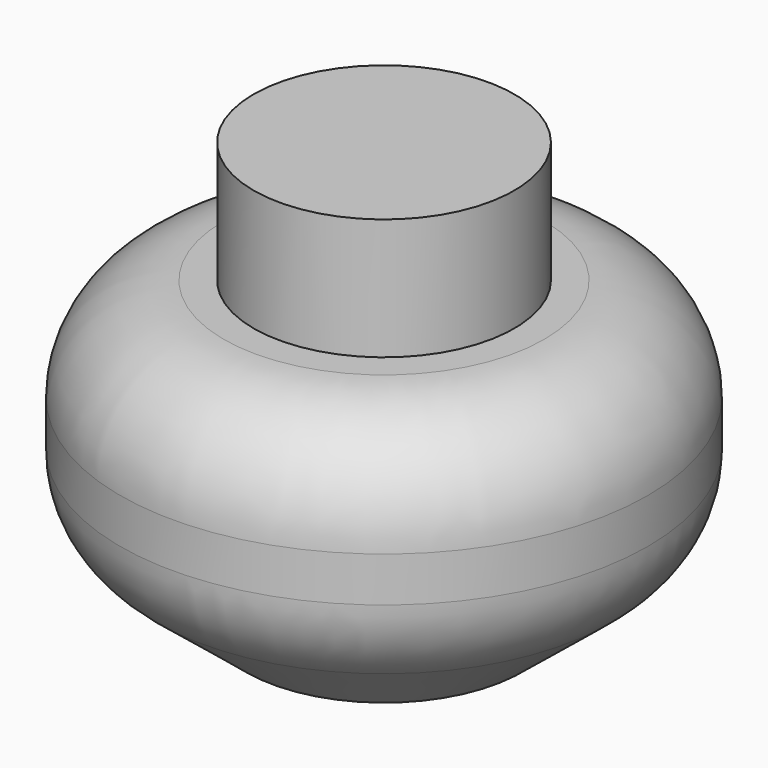
from build123d import *

# Parameters (mm, degrees)
F2_R = 25.4


with BuildPart() as f1:
    # F0 (on Front) → F1 (revolve)
    with BuildSketch(Plane.XZ):
        with BuildLine():
            Line((-33.846732, 0), (0, 0))
            Line((0, 0), (0, 103.226429))
            Line((0, 103.226429), (-31.94258, 103.226429))
            Line((-31.94258, 103.226429), (-31.94258, 73.488735))
            Line((-31.94258, 73.488735), (-64.643393, 73.488735))
            Line((-64.643393, 73.488735), (-64.643393, 37.10385))
            ThreePointArc((-64.643393, 37.10385), (-62.176766, 26.18504), (-55.255959, 17.38691))
            Line((-55.255959, 17.38691), (-33.846732, 0))
        make_face()
    revolve(axis=Axis((0, 0, 51.613214), (0, 0, -1)))

    # F2
    f2_edges = [f1.edges().sort_by_distance(p)[0] for p in [
        (64.643393, 0, 73.488735),
    ]]
    fillet(f2_edges, radius=F2_R)


solid = f1.part
